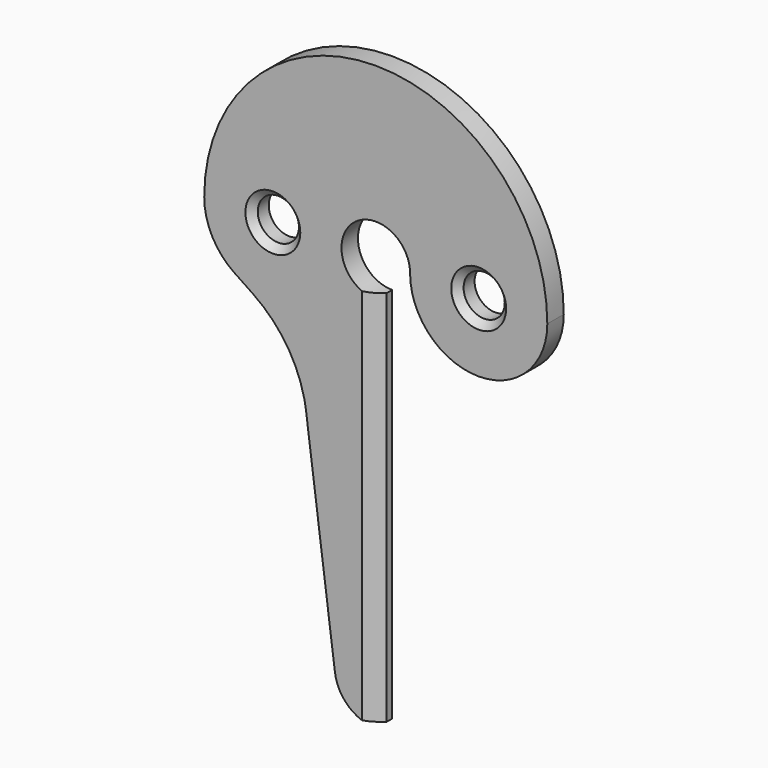
from build123d import *

# Parameters (mm, degrees)
F0_R     = 3
F1_DEPTH = 3
F2_SIZE  = 1
F3_SIZE  = 2


with BuildPart() as f1:
    # F0 (on Front) → F1 (new body)
    with BuildSketch(Plane.XZ):
        with BuildLine():
            ThreePointArc((5, 0), (15, -10), (25, 0))
            ThreePointArc((25, 0), (0, 25), (-25, 0))
            ThreePointArc((-25, 0), (-23.826115, -4.701031), (-20.580062, -8.298368))
            Line((-20.580062, -8.298368), (-17.955888, -10.062938))
            ThreePointArc((-17.955888, -10.062938), (-13.137419, -14.846001), (-10.433443, -21.073669))
            Line((-10.433443, -21.073669), (-10.024779, -22.902048))
            ThreePointArc((-10.024779, -22.902048), (-10.075894, -22.879606), (-10.126959, -22.857049))
            Line((-10.126959, -22.857049), (-5.949267, -54.778603))
            ThreePointArc((-5.949267, -54.778603), (-3.957801, -58.509524), (0, -60))
            Line((0, -60), (0, -57))
            Line((0, -57), (0, -5))
            ThreePointArc((0, -5), (-3.535534, 3.535534), (5, 0))
        make_face()
        with Locations((-15, 0)):
            Circle(F0_R, mode=Mode.SUBTRACT)
        with Locations((15, 0)):
            Circle(F0_R, mode=Mode.SUBTRACT)
        with BuildLine():
            Line((-10.024779, -22.902048), (-10.433443, -21.073669))
            ThreePointArc((-10.433443, -21.073669), (-10.274972, -21.865774), (-10.152199, -22.664192))
            Line((-10.152199, -22.664192), (-10.126959, -22.857049))
            ThreePointArc((-10.126959, -22.857049), (-10.075894, -22.879606), (-10.024779, -22.902048))
        make_face()
        with BuildLine():
            Line((-10.126959, -22.857049), (-10.152199, -22.664192))
            ThreePointArc((-10.152199, -22.664192), (-10.139879, -22.760341), (-10.128077, -22.856554))
            ThreePointArc((-10.128077, -22.856554), (-10.127518, -22.856802), (-10.126959, -22.857049))
        make_face()
    extrude(amount=F1_DEPTH)

    # F2
    f2_edges = [f1.edges().sort_by_distance(p)[0] for p in [
        (-18, -3, 0),
        (12, -3, 0),
    ]]
    chamfer(f2_edges, length=F2_SIZE)

    # F3
    f3_edges = [f1.edges().sort_by_distance(p)[0] for p in [
        (0, -3, -32.5),
    ]]
    chamfer(f3_edges, length=F3_SIZE)


solid = f1.part
